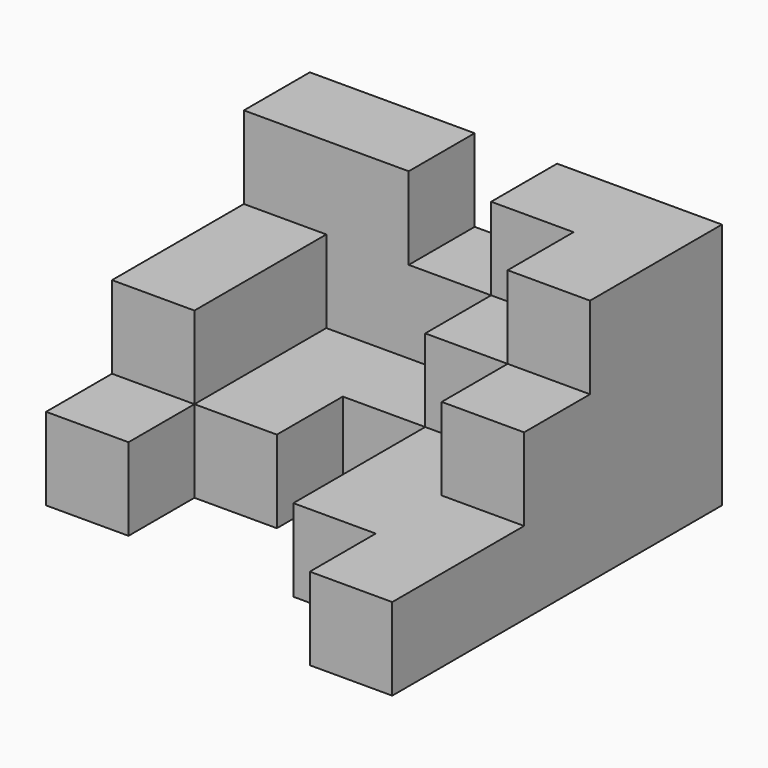
from build123d import *

# Parameters (mm, degrees)
F0_W     = 67.2
F0_H     = 67.2
F1_DEPTH = 201.6
F2_DEPTH = 134.4
F3_DEPTH = 67.2


with BuildPart() as f1:
    # F0 (on Top) → F1 (new body)
    with BuildSketch(Plane.XY):
        with Locations((33.6, 302.4)):
            Rectangle(F0_W, F0_H)
        with Locations((302.4, 302.4)):
            Rectangle(F0_W, F0_H)
        with Locations((302.4, 235.2)):
            Rectangle(F0_W, F0_H)
        with Locations((100.8, 302.4)):
            Rectangle(F0_W, F0_H)
        with Locations((235.2, 302.4)):
            Rectangle(F0_W, F0_H)
    extrude(amount=F1_DEPTH)



with BuildPart() as f2:
    # F0 (on Top) → F2 (new body)
    with BuildSketch(Plane.XY):
        with Locations((33.6, 235.2)):
            Rectangle(F0_W, F0_H)
        with Locations((33.6, 168)):
            Rectangle(F0_W, F0_H)
        with Locations((235.2, 235.2)):
            Rectangle(F0_W, F0_H)
        with Locations((302.4, 168)):
            Rectangle(F0_W, F0_H)
        with Locations((168, 302.4)):
            Rectangle(F0_W, F0_H)
    extrude(amount=F2_DEPTH)


with BuildPart() as f1_1:
    add(f1.part)

    add(f2.part)  # F3 merges F2
    # F0 (on Top) → F3 (join)
    with BuildSketch(Plane.XY):
        with Locations((100.8, 168)):
            Rectangle(F0_W, F0_H)
        with Locations((33.6, 100.8)):
            Rectangle(F0_W, F0_H)
        with Locations((235.2, 100.8)):
            Rectangle(F0_W, F0_H)
        with Locations((302.4, 100.8)):
            Rectangle(F0_W, F0_H)
        with Locations((235.2, 168)):
            Rectangle(F0_W, F0_H)
        with Locations((100.8, 235.2)):
            Rectangle(F0_W, F0_H)
        with Locations((168, 235.2)):
            Rectangle(F0_W, F0_H)
        with Locations((302.4, 33.6)):
            Rectangle(F0_W, F0_H)
    extrude(amount=F3_DEPTH)


solid = f1_1.part
